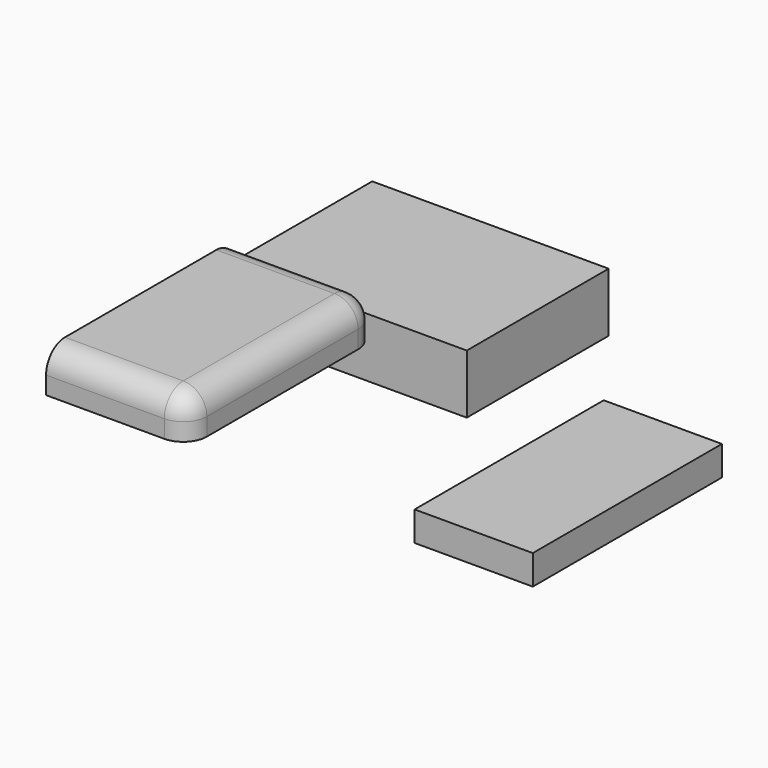
from build123d import *

# Parameters (mm, degrees)
F0_W     = 30.48
F0_H     = 8.89
F1_DEPTH = 50.8
F2_R     = 5.08
F3_W     = 25.4
F3_H     = 6.35
F4_DEPTH = 50.8
F5_W     = 50.8
F5_H     = 38.1
F6_DEPTH = 12.7


with BuildPart() as f1:
    # F0 (on Front) → F1 (new body)
    with BuildSketch(Plane.XZ):
        with Locations((-31.463226, 25.092742)):
            Rectangle(F0_W, F0_H)
    extrude(amount=F1_DEPTH)

    # F2
    f2_edges = [f1.edges().sort_by_distance(p)[0] for p in [
        (-16.223226, -25.4, 29.537742),
        (-31.463226, -50.8, 29.537742),
        (-16.223226, -50.8, 25.092742),
        (-31.463226, 0, 29.537742),
        (-16.223226, 0, 25.092742),
    ]]
    fillet(f2_edges, radius=F2_R)


with BuildPart() as f4:
    # F3 (on Front) → F4 (new body)
    with BuildSketch(Plane.XZ):
        with Locations((45.187424, 21.610484)):
            Rectangle(F3_W, F3_H)
    extrude(amount=F4_DEPTH)


with BuildPart() as f6:
    # F5 (on Top) → F6 (new body)
    with BuildSketch(Plane.XY):
        with Locations((-36.645646, 36.93242)):
            Rectangle(F5_W, F5_H)
    extrude(amount=F6_DEPTH)


solid = Compound([f1.part, f4.part, f6.part])
